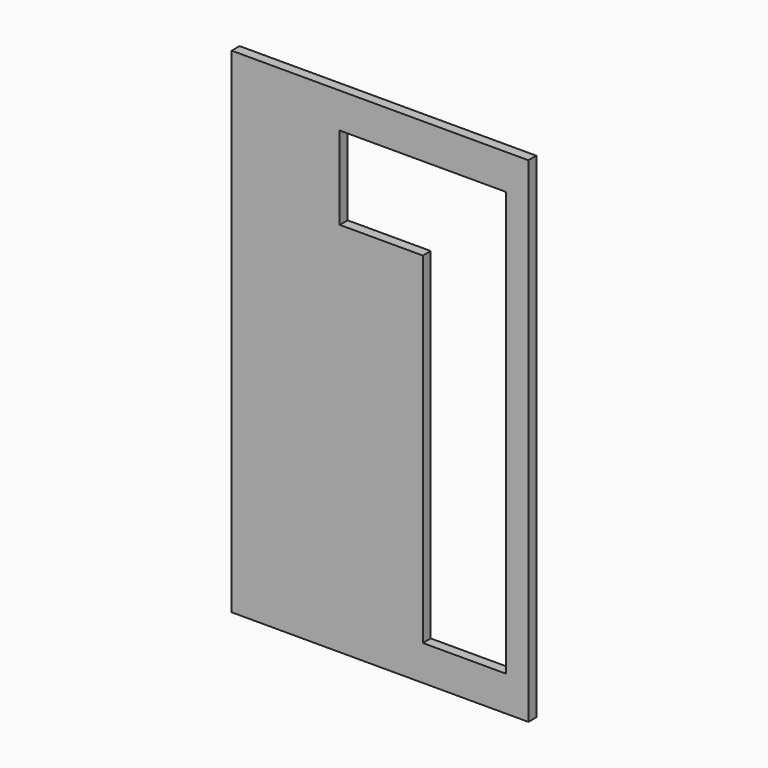
from build123d import *

# Parameters (mm, degrees)
F0_W     = 21
F0_H     = 3.81
F1_DEPTH = 2.5


with BuildPart() as f1:
    # F0 (on Front) → F1 (new body)
    with BuildSketch(Plane.XZ):
        Polygon((0, 125), (0, 0), (75, 0), (75, 125), (71.19, 125), (71.19, 121.19), (71.19, 3.81), (3.81, 3.81), (3.81, 121.19), (44.505585, 121.19), (50.19, 121.19), (50.19, 125), (44.505585, 125), align=None)
        with Locations((60.69, 123.095)):
            Rectangle(F0_W, F0_H)
        Polygon((71.19, 3.81), (71.19, 121.19), (50.19, 121.19), (44.505585, 121.19), (3.81, 121.19), (3.81, 3.81), align=None)
        Polygon((40.05, 8.89), (8.89, 8.89), (8.89, 29.89), (19.05, 29.89), (19.05, 68.823177), (8.89, 68.823177), (8.89, 116.11), (27.309994, 116.11), (69.309994, 116.11), (69.309994, 8.89), (48.309994, 8.89), (48.309994, 95.11), (27.309994, 95.11), (27.309994, 89.823177), (40.05, 89.823177), align=None, mode=Mode.SUBTRACT)
        Polygon((8.89, 29.89), (8.89, 8.89), (40.05, 8.89), (40.05, 89.823177), (27.309994, 89.823177), (27.309994, 95.11), (27.309994, 116.11), (8.89, 116.11), (8.89, 68.823177), (19.05, 68.823177), (19.05, 29.89), align=None)
    extrude(amount=F1_DEPTH)


solid = f1.part
